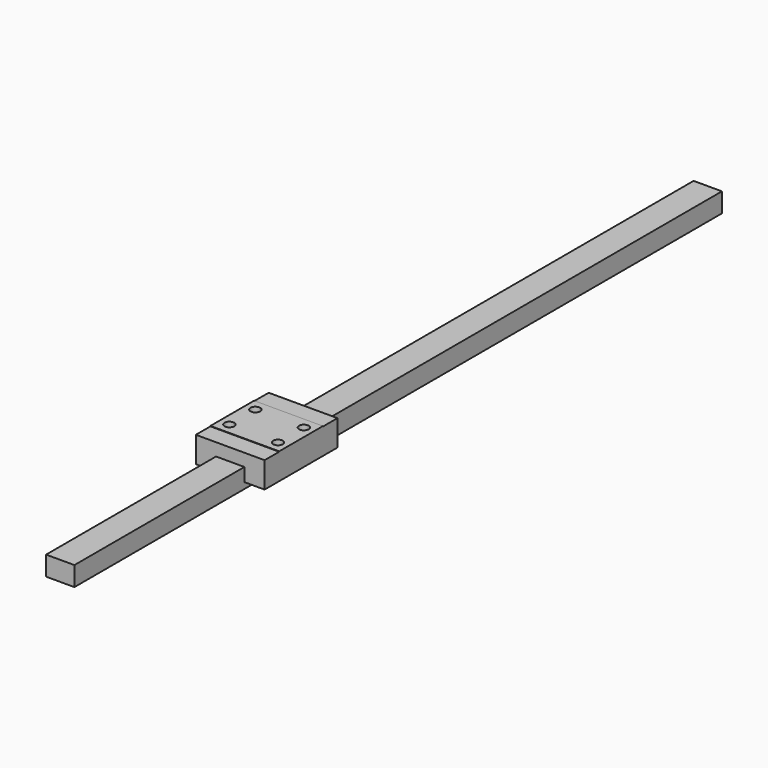
from build123d import *

# Parameters (mm, degrees)
SKETCH022_W     = 7
SKETCH022_H     = 4.8
PAD008_DEPTH    = 200
SKETCH023_W     = 17
SKETCH023_H     = 22.5
PAD009_DEPTH    = 6.5
SKETCH025_W     = 17
SKETCH025_H     = 4.5
POCKET014_DEPTH = 0.1
SKETCH024_R     = 1.2
POCKET015_DEPTH = 2.5


with BuildPart() as part:
    # Sketch022 → Pad008 (new body)
    with BuildSketch(Plane.XZ):
        with Locations((3.5, 2.4)):
            Rectangle(SKETCH022_W, SKETCH022_H)
    extrude(amount=-PAD008_DEPTH)

    # Sketch023 (on Face1 of Pad008) → Pad009 (join)
    with BuildSketch(Plane(origin=(0, 0, 1.5), x_dir=(-1, 0, 0), z_dir=(0, 0, 1))):
        with Locations((-3.5, -63.75)):
            Rectangle(SKETCH023_W, SKETCH023_H)
    extrude(amount=PAD009_DEPTH)

    # Sketch025 (on Face13 of Pad009) → Pocket014 (cut)
    with BuildSketch(Plane(origin=(0, 0, 8), x_dir=(-1, 0, 0), z_dir=(0, 0, 1))):
        with Locations((-3.5, -54.75)):
            Rectangle(SKETCH025_W, SKETCH025_H)
        with Locations((-3.5, -72.75)):
            Rectangle(SKETCH025_W, SKETCH025_H)
    extrude(amount=-POCKET014_DEPTH, mode=Mode.SUBTRACT)

    # Sketch024 (on Face17 of Pocket014) → Pocket015 (cut)
    with BuildSketch(Plane(origin=(0, 0, 8), x_dir=(-1, 0, 0), z_dir=(0, 0, 1))):
        with Locations((-9.5, -59.75)):
            Circle(SKETCH024_R)
        with Locations((2.5, -59.75)):
            Circle(SKETCH024_R)
        with Locations((2.5, -67.75)):
            Circle(SKETCH024_R)
        with Locations((-9.5, -67.75)):
            Circle(SKETCH024_R)
    extrude(amount=-POCKET015_DEPTH, mode=Mode.SUBTRACT)


with BuildPart() as part_1:
    # Body005 placement: moved
    add(part.part.moved(Location((85.46, -100, -35))))


solid = part_1.part
